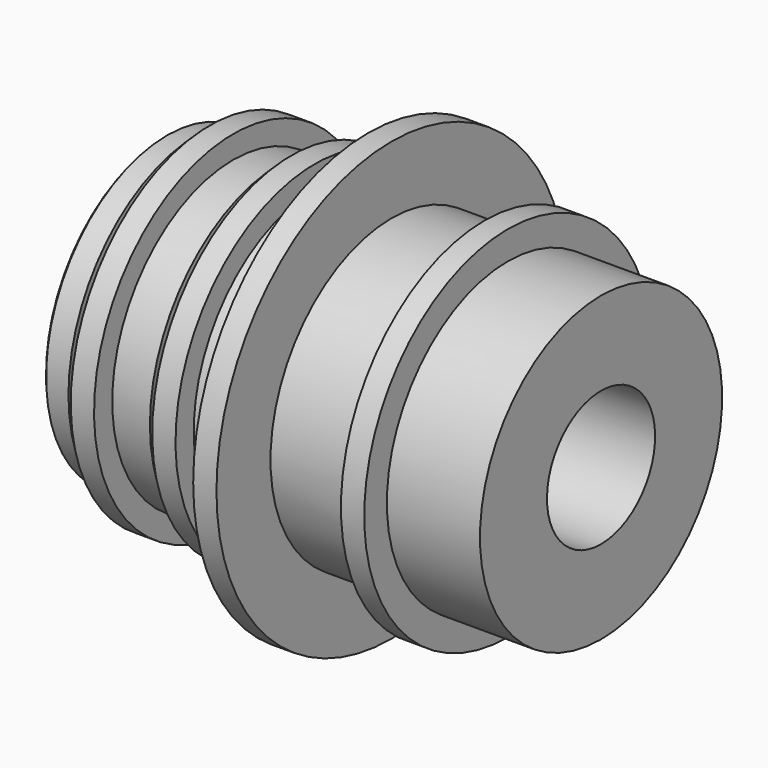
from build123d import *

# Parameters (mm, degrees)
F0_W     = 37.6
F0_H     = 4.5
F2_DEPTH = 25.4


with BuildPart() as f1:
    # F0 (on Front) → F1 (revolve)
    with BuildSketch(Plane.XZ):
        Polygon((-18.8, 2.25), (18.8, 2.25), (18.8, 3.6), (10.8, 3.6), (10.8, 6.0348939151), (8.8, 6.0348939151), (8.8, 3.6), (0.8, 3.6), (0.8, 9.40517243), (-1.2, 9.40517243), (-1.2, 3.6), (-5.8, 3.6), (-5.8, 5.5568809621), (-7.8, 5.5568809621), (-8.6958212778, 4.684086889), (-8.6958212778, 3.6), (-12.8, 3.6), (-12.8, 5.5568809621), (-14.8, 5.5568809621), (-15.6958212778, 4.684086889), (-15.6958212778, 3.6), (-18.4839710472, 3.6), (-18.8, 3.21253942), align=None)
        Polygon((18.8, -3.6), (18.8, -2.25), (-18.8, -2.25), (-18.8, -3.21253942), (-18.4839710472, -3.6), (-15.6958212778, -3.6), (-15.6958212778, -4.684086889), (-14.8, -5.5568809621), (-12.8, -5.5568809621), (-12.8, -3.6), (-8.6958212778, -3.6), (-8.6958212778, -4.684086889), (-7.8, -5.5568809621), (-5.8, -5.5568809621), (-5.8, -3.6), (-1.2, -3.6), (-1.2, -9.40517243), (0.8, -9.40517243), (0.8, -3.6), (8.8, -3.6), (8.8, -6.0348939151), (10.8, -6.0348939151), (10.8, -3.6), align=None)
        Rectangle(F0_W, F0_H)
    revolve(axis=Axis((-0.2, 0, 9.40517243), (-1, 0, 0)))

    # F2 (cut): a face of the model
    f2_faces = [f1.faces().sort_by_distance(p)[0] for p in [
        (0.8, 0, 9.40517243),
    ]]
    extrude(f2_faces, amount=-F2_DEPTH, mode=Mode.SUBTRACT)


solid = f1.part
